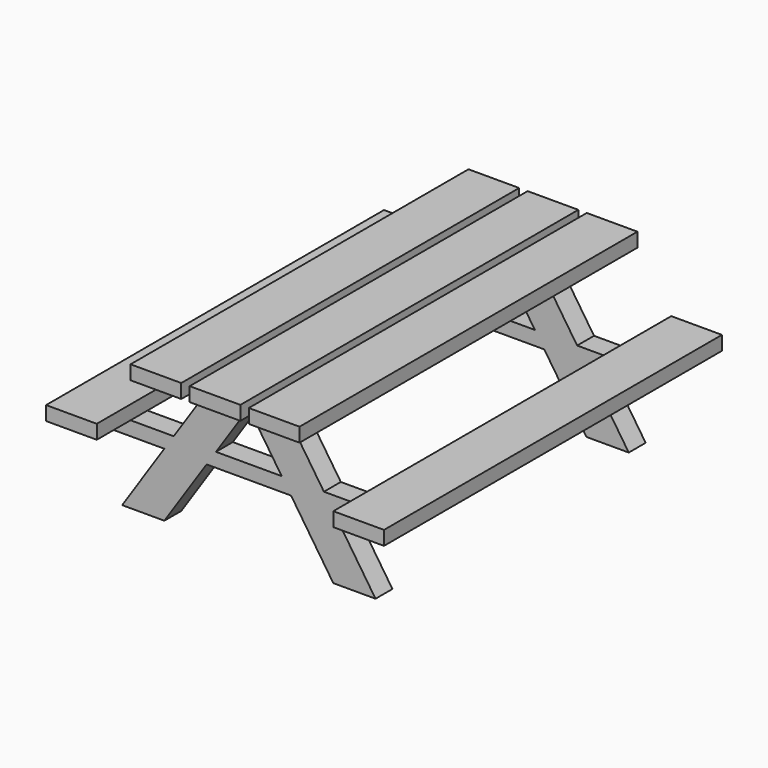
from build123d import *

# Parameters (mm, degrees)
F0_W      = 15.24
F0_H      = 127
F1_DEPTH  = 4.2333333333
F4_DEPTH  = 6.35
F7_DEPTH  = 6.35
F9_W      = 15.24
F9_H      = 4.2333333333
F10_DEPTH = 127


with BuildPart() as f1:
    # F0 (on Top) → F1 (new body)
    with BuildSketch(Plane.XY):
        with Locations((-17.78, 0)):
            Rectangle(F0_W, F0_H)
    extrude(amount=F1_DEPTH)


with BuildPart() as f1b:
    # F0 (on Top) → F1, piece 2 (new body)
    with BuildSketch(Plane.XY):
        with Locations((17.78, 0)):
            Rectangle(F0_W, F0_H)
    extrude(amount=F1_DEPTH)


with BuildPart() as f1c:
    # F0 (on Top) → F1, piece 3 (new body)
    with BuildSketch(Plane.XY):
        Rectangle(F0_W, F0_H)
    extrude(amount=F1_DEPTH)


with BuildPart() as f4:
    # F3 (on offset) → F4 (new body)
    with BuildSketch(Plane.XZ.offset(50.8)):
        Polygon((19.05, 0), (-19.05, 0), (-19.05, -4.2333333333), (-12.7, -4.2333333333), (-22.5777777778, -19.05), (-45.71999982, -19.05), (-45.71999982, -23.2833333333), (-38.1, -23.2833333333), (-25.4, -23.2833333333), (-38.1, -42.3333333333), (-25.4, -42.3333333333), (-12.7, -23.2833333333), (12.7, -23.2833333333), (25.4, -42.3333333333), (38.1, -42.3333333333), (25.4, -23.2833333333), (38.1, -23.2833333333), (45.72, -23.2833333333), (45.72, -19.05), (22.5777777778, -19.05), (12.7, -4.2333333333), (19.05, -4.2333333333), align=None)
        Polygon((0, -4.2333333333), (9.8777777778, -19.05), (-9.8777777778, -19.05), align=None, mode=Mode.SUBTRACT)
    extrude(amount=-F4_DEPTH)

    # F9 (on offset) → F10 (join)
    with BuildSketch(Plane(origin=(0, 63.5, 0), x_dir=(-1, 0, 0), z_dir=(0, 1, 0))):
        with Locations((43.18, -16.9333333333)):
            Rectangle(F9_W, F9_H)
        with Locations((-43.18, -16.9333333333)):
            Rectangle(F9_W, F9_H)
    extrude(amount=-F10_DEPTH)


with BuildPart() as f7:
    # F6 (on offset) → F7 (new body)
    with BuildSketch(Plane(origin=(0, 50.8, 0), x_dir=(-1, 0, 0), z_dir=(0, 1, 0))):
        Polygon((19.1192216953, -0.0536813261), (-18.9807783047, -0.0536813261), (-18.9807783047, -4.2870146595), (-12.6307783047, -4.2870146595), (-22.5085560824, -19.1036813261), (-45.6507781246, -19.1036813261), (-45.6507781246, -23.3370146595), (-37.8464236413, -23.3370146595), (-25.3307783047, -23.3370146595), (-38.0307783047, -42.3870146595), (-25.3307783047, -42.3870146595), (-12.6307783047, -23.3370146595), (12.7692216953, -23.3370146595), (25.4692216953, -42.3870146595), (38.1692216953, -42.3870146595), (25.4692216953, -23.3370146595), (38.3535763587, -23.3370146595), (45.7892216953, -23.3370146595), (45.7892216953, -19.1036813261), (22.6469994731, -19.1036813261), (12.7692216953, -4.2870146595), (19.1192216953, -4.2870146595), align=None)
        Polygon((0.0692216953, -4.2870146595), (9.9469994731, -19.1036813261), (-9.8085560824, -19.1036813261), align=None, mode=Mode.SUBTRACT)
    extrude(amount=-F7_DEPTH)


solid = Compound([f1.part, f1b.part, f1c.part, f4.part, f7.part])
